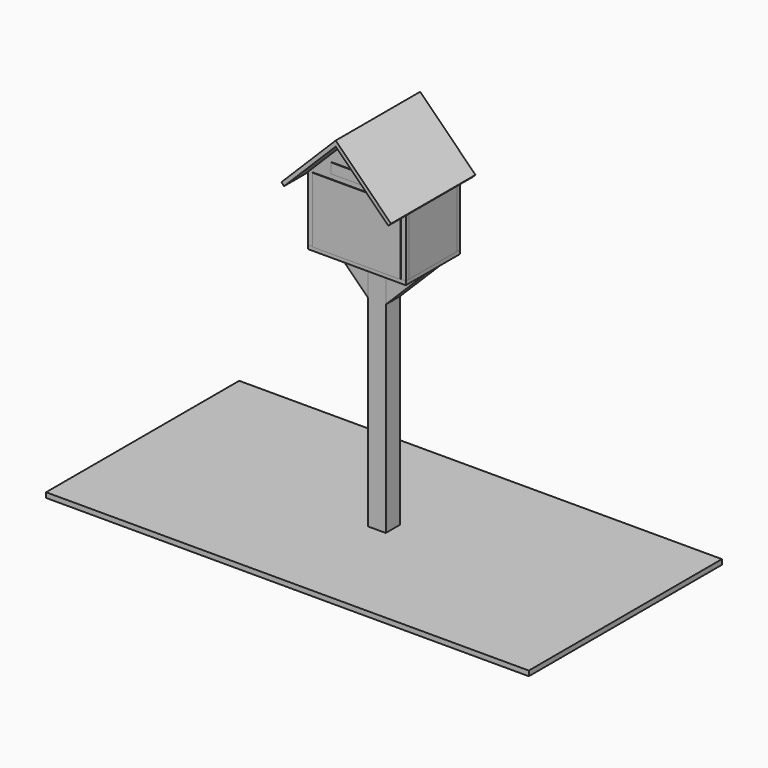
from build123d import *

# Parameters (mm, degrees)
F0_W           = 457.2
F0_H           = 304.8
F1_DEPTH       = 304.8
F2_W           = 495.3
F2_H           = 342.9
F2_W_2         = 457.2
F2_H_2         = 304.8
F3_DEPTH       = 19.05
F4_W           = 457.2
F4_H           = 304.8
F5_DEPTH       = 19.05
F7_W           = 304.8
F7_H           = 304.8
F7_H_2         = 19.05
F8_DEPTH       = 19.05
F12_DEPTH      = 228.6
F12_DEPTH_BACK = 304.8
F13_W          = 393.7
F13_H          = 279.4
F14_DEPTH      = 19.05
F15_W          = 444.5
F15_H          = 330.2
F16_DEPTH      = 3.175
F17_W          = 88.9
F17_H          = 88.9
F18_DEPTH      = 1219.2
F20_DEPTH      = 88.9
F21_W          = 254
F21_H          = 50.8
F22_DEPTH      = 3.175
F23_W          = 2438.4
F23_H          = 1219.2
F24_DEPTH      = 25.4


with BuildPart() as f1:
    # F0 (on Top) → F1 (new body)
    with BuildSketch(Plane.XY):
        Rectangle(F0_W, F0_H)
    extrude(amount=F1_DEPTH)


with BuildPart() as f3:
    # F2 (on face) → F3 (new body)
    with BuildSketch(Plane(origin=(0, 0, 0), x_dir=(1, 0, 0), z_dir=(0, 0, -1))):
        Rectangle(F2_W, F2_H)
        Rectangle(F2_W_2, F2_H_2, mode=Mode.SUBTRACT)
        Rectangle(F2_W_2, F2_H_2)
    extrude(amount=F3_DEPTH)


with BuildPart() as f5:
    # F4 (on face) → F5 (new body)
    with BuildSketch(Plane.XZ.offset(152.4)):
        with Locations((0, 152.4)):
            Rectangle(F4_W, F4_H)
        Polygon((-228.6, 0), (-228.6, 304.8), (228.6, 304.8), (228.6, 0), (247.65, 0), (247.65, 323.85), (-247.65, 323.85), (-247.65, 0), align=None)
        Polygon((0, 571.5), (-247.65, 323.85), (247.65, 323.85), align=None)
    extrude(amount=F5_DEPTH)


with BuildPart() as f6_1:
    # F6: copy of F5
    add(f5.part.moved(Location((0, 323.85, 0))))


with BuildPart() as f8:
    # F7 (on face) → F8 (new body)
    with BuildSketch(Plane.YZ.offset(228.6)):
        with Locations((0, 152.4)):
            Rectangle(F7_W, F7_H)
        with Locations((0, 314.325)):
            Rectangle(F7_W, F7_H_2)
    extrude(amount=F8_DEPTH)


with BuildPart() as f9_1:
    # F9: copy of F8
    add(f8.part.moved(Location((-476.25, 0, 0))))


with BuildPart() as f12:
    # F11 (on offset) → F12 (new body, two sides)
    with BuildSketch(Plane.XZ) as f12_sk:
        Polygon((-261.1203841816, 310.3796158184), (-247.65, 323.85), (0, 571.5), (13.4703841816, 584.9703841816), (0, 598.4407683632), (-13.4703841816, 584.9703841816), (-261.1203841816, 337.3203841816), (-274.5907683632, 323.85), align=None)
        Polygon((13.4703841816, 584.9703841816), (0, 571.5), (265.6105122421, 305.8894877579), (279.0808964237, 319.3598719395), align=None)
    extrude(amount=-F12_DEPTH)
    extrude(f12_sk.sketch, amount=F12_DEPTH_BACK)


with BuildPart() as f5_1:
    add(f5.part)

    # F13 (on face) → F14 (cut, through all)
    with BuildSketch(Plane.XZ.offset(171.45)):
        with Locations((0, 165.1)):
            Rectangle(F13_W, F13_H)
    extrude(amount=-F14_DEPTH, mode=Mode.SUBTRACT)


with BuildPart() as f16:
    # F15 (on face) → F16 (new body)
    with BuildSketch(Plane.XZ.offset(171.45)):
        with Locations((0, 165.1)):
            Rectangle(F15_W, F15_H)
    extrude(amount=F16_DEPTH)


with BuildPart() as f18:
    # F17 (on face) → F18 (new body)
    with BuildSketch(Plane(origin=(0, 0, -19.05), x_dir=(1, 0, 0), z_dir=(0, 0, -1))):
        Rectangle(F17_W, F17_H)
    extrude(amount=F18_DEPTH)


with BuildPart() as f20:
    # F19 (on face) → F20 (new body, through all)
    with BuildSketch(Plane.XZ.offset(44.45)):
        Polygon((-247.65, -19.05), (-44.45, -222.25), (-44.45, -96.526414305), (-121.926414305, -19.05), align=None)
    extrude(amount=-F20_DEPTH)


with BuildPart() as f20b:
    # F19 (on face) → F20, piece 2 (new body, through all)
    with BuildSketch(Plane.XZ.offset(44.45)):
        Polygon((44.45, -96.526414305), (44.45, -222.25), (247.65, -19.05), (121.926414305, -19.05), align=None)
    extrude(amount=-F20_DEPTH)


with BuildPart() as f22:
    # F21 (on face) → F22 (new body)
    with BuildSketch(Plane.XZ.offset(171.45)):
        with Locations((0, 381)):
            Rectangle(F21_W, F21_H)
    extrude(amount=F22_DEPTH)


with BuildPart() as f24:
    # F23 (on face) → F24 (new body)
    with BuildSketch(Plane(origin=(0, 0, -1238.25), x_dir=(1, 0, 0), z_dir=(0, 0, -1))):
        Rectangle(F23_W, F23_H)
    extrude(amount=F24_DEPTH)


solid = Compound([f1.part, f3.part, f6_1.part, f8.part, f9_1.part, f12.part, f5_1.part, f16.part, f18.part, f20.part, f20b.part, f22.part, f24.part])
